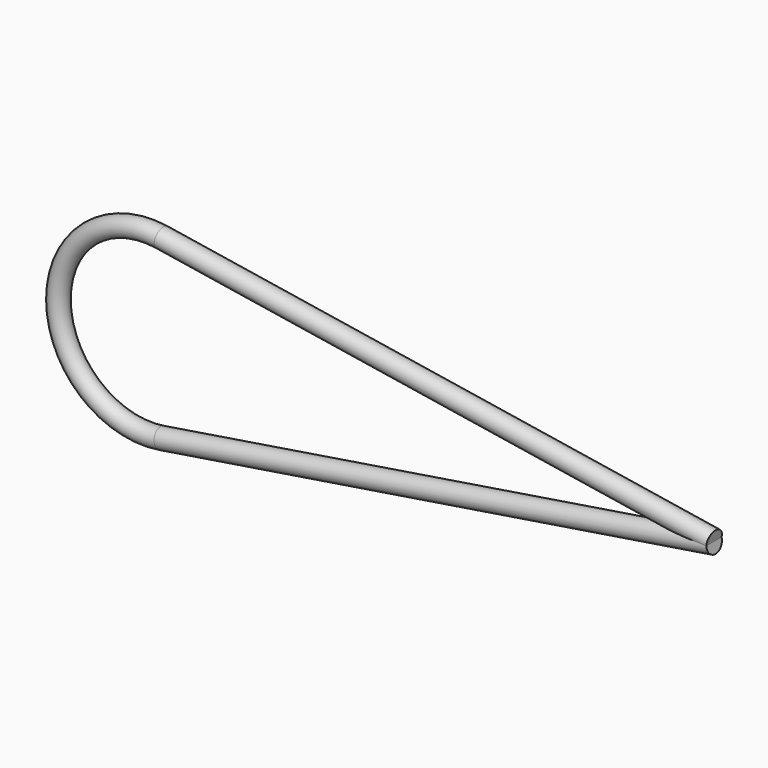
from build123d import *

# Parameters (mm, degrees)
F0_R          = 1
F1_ANGLE_BACK = 99
F1_ANGLE      = 198
F2_DEPTH      = 58
F3_DEPTH      = 58


with BuildPart() as f1:
    # F0 (on Top) → F1 (revolve)
    with BuildSketch(Plane.XY, mode=Mode.PRIVATE) as f1_sk:
        Circle(F0_R)
    revolve(f1_sk.sketch.rotate(Axis((9.283, 0.6793318316, 0), (0, 1, 0)), -F1_ANGLE_BACK), axis=Axis((9.283, 0.6793318316, 0), (0, 1, 0)), revolution_arc=F1_ANGLE)

    # F2 (add): a face of the model
    f2_faces = [f1.faces().sort_by_distance(p)[0] for p in [
        (10.735181139, 0, 9.1687108657),
    ]]
    extrude(f2_faces, amount=F2_DEPTH)

    # F3 (add): a face of the model
    f3_faces = [f1.faces().sort_by_distance(p)[0] for p in [
        (10.735181139, 0, -9.1687108657),
    ]]
    extrude(f3_faces, amount=F3_DEPTH)


solid = f1.part
